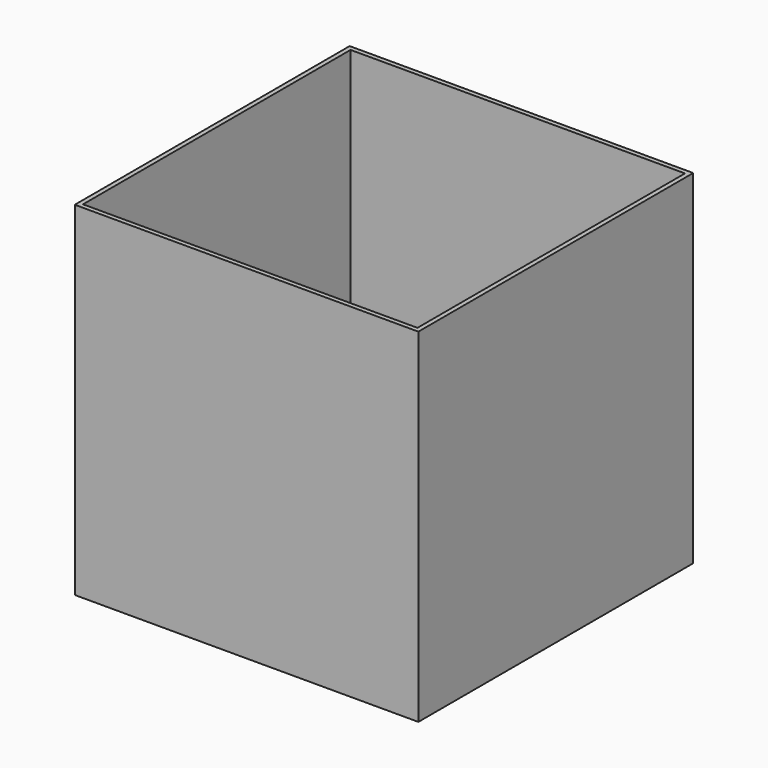
from build123d import *

# Parameters (mm, degrees)
F0_W     = 1500
F0_H     = 1500
F0_W_2   = 1460
F0_H_2   = 1460
F1_DEPTH = 1500
F2_W     = 1500
F2_H     = 1500
F3_DEPTH = 25


with BuildPart() as f1:
    # F0 (on Top) → F1 (new body)
    with BuildSketch(Plane.XY):
        Rectangle(F0_W, F0_H)
        Rectangle(F0_W_2, F0_H_2, mode=Mode.SUBTRACT)
    extrude(amount=F1_DEPTH)

    # F2 (on face) → F3 (join)
    with BuildSketch(Plane(origin=(0, 0, 0), x_dir=(1, 0, 0), z_dir=(0, 0, -1))):
        Rectangle(F2_W, F2_H)
    extrude(amount=-F3_DEPTH)


solid = f1.part
